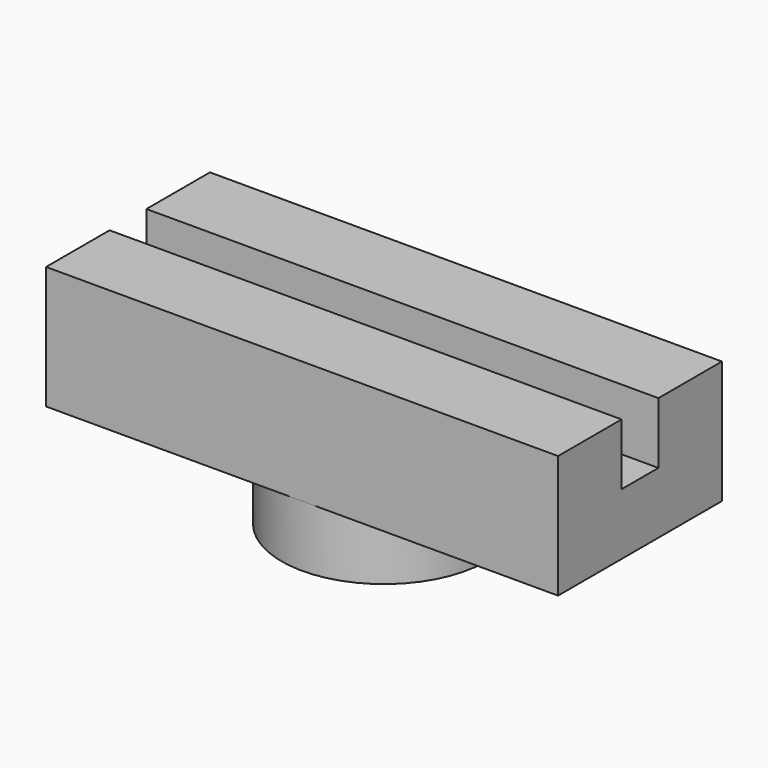
from build123d import *

# Parameters (mm, degrees)
F0_R     = 5
F1_DEPTH = 3
F2_R     = 3
F3_DEPTH = 3
F4_W     = 25
F4_H     = 10
F5_DEPTH = 6
F6_W     = 25
F6_H     = 2.25
F7_DEPTH = 3


with BuildPart() as f1:
    # F0 (on Top) → F1 (new body)
    with BuildSketch(Plane.XY):
        Circle(F0_R)
    extrude(amount=F1_DEPTH)

    # F2 (on Top) → F3 (cut)
    with BuildSketch(Plane.XY):
        Circle(F2_R)
    extrude(amount=F3_DEPTH, mode=Mode.SUBTRACT)

    # F4 (on face) → F5 (join)
    with BuildSketch(Plane.XY.offset(3)):
        Rectangle(F4_W, F4_H)
    extrude(amount=F5_DEPTH)

    # F6 (on face) → F7 (cut)
    with BuildSketch(Plane.XY.offset(9)):
        Rectangle(F6_W, F6_H)
    extrude(amount=-F7_DEPTH, mode=Mode.SUBTRACT)


solid = f1.part
